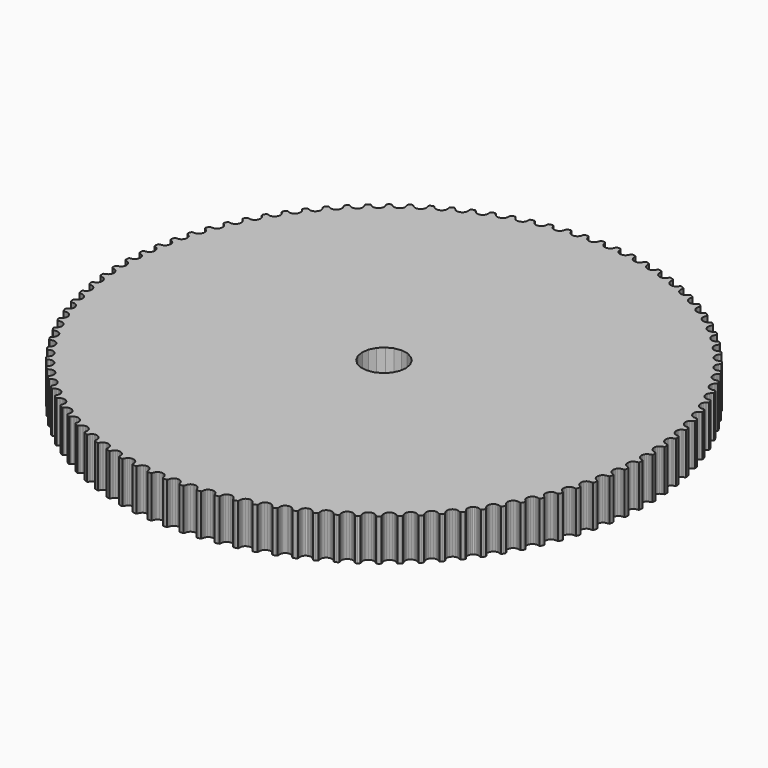
from build123d import *

# Parameters (mm, degrees)
F2_DEPTH = 2.5


with BuildPart() as f2:
    # F1 (on Top) → F2 (new body, symmetric)
    with BuildSketch(Plane.XY):
        Polygon((0.84491, -31.5649), (0.991852, -31.5614), (1.13872, -31.5556), (1.24638, -31.5123), (1.29677, -31.4157), (1.31229, -31.3066), (1.34114, -31.1999), (1.38292, -31.0964), (1.43713, -30.9968), (1.53665, -30.8932), (1.65651, -30.8151), (1.79091, -30.7638), (1.93401, -30.7404), (2.07893, -30.7457), (2.2187, -30.7798), (2.3474, -30.8422), (2.45911, -30.9325), (2.52521, -31.0245), (2.57964, -31.122), (2.62175, -31.2242), (2.65088, -31.3305), (2.71283, -31.4201), (2.82521, -31.4495), (2.97165, -31.4368), (3.11786, -31.4219), (3.2226, -31.3719), (3.26682, -31.2723), (3.27545, -31.1624), (3.29756, -31.0541), (3.33275, -30.9482), (3.3806, -30.8454), (3.47342, -30.7357), (3.58813, -30.6503), (3.71906, -30.5907), (3.8604, -30.5583), (4.00536, -30.5545), (4.147, -30.5797), (4.27936, -30.6339), (4.39653, -30.7171), (4.46828, -30.8048), (4.52872, -30.8986), (4.57716, -30.998), (4.6129, -31.1022), (4.68036, -31.1877), (4.79437, -31.2101), (4.93973, -31.1882), (5.08472, -31.1641), (5.1861, -31.1076), (5.22397, -31.0054), (5.22569, -30.8952), (5.24095, -30.7858), (5.26942, -30.6779), (5.31073, -30.5723), (5.39648, -30.457), (5.50562, -30.3645), (5.63252, -30.2968), (5.77155, -30.2556), (5.916, -30.2427), (6.05893, -30.259), (6.19443, -30.3048), (6.31659, -30.3804), (6.39371, -30.4634), (6.45992, -30.5533), (6.51451, -30.6494), (6.55672, -30.7512), (6.62943, -30.8323), (6.7446, -30.8474), (6.88831, -30.8165), (7.03148, -30.7833), (7.12914, -30.7206), (7.16051, -30.6162), (7.15532, -30.5062), (7.16367, -30.396), (7.1853, -30.2865), (7.21989, -30.1785), (7.29825, -30.058), (7.40135, -29.9589), (7.52376, -29.8834), (7.65993, -29.8335), (7.80328, -29.8116), (7.94695, -29.8188), (8.08507, -29.856), (8.21173, -29.9238), (8.2939, -30.0018), (8.36563, -30.0874), (8.42615, -30.1799), (8.47466, -30.2788), (8.55231, -30.3552), (8.66823, -30.3631), (8.80969, -30.3232), (8.95052, -30.2811), (9.04402, -30.2123), (9.06879, -30.1062), (9.05669, -29.9967), (9.05811, -29.8862), (9.07281, -29.7755), (9.10057, -29.6656), (9.1712, -29.5405), (9.26788, -29.4351), (9.3853, -29.352), (9.51807, -29.2936), (9.65976, -29.2628), (9.80362, -29.261), (9.94379, -29.2894), (10.0745, -29.3491), (10.1614, -29.4218), (10.2383, -29.5027), (10.3045, -29.5912), (10.3592, -29.6869), (10.4415, -29.7583), (10.5576, -29.7589), (10.6963, -29.7102), (10.8342, -29.6593), (10.9232, -29.5849), (10.9413, -29.4774), (10.9223, -29.3688), (10.9168, -29.2584), (10.9246, -29.1471), (10.9453, -29.0356), (11.008, -28.9063), (11.0978, -28.7951), (11.2098, -28.7047), (11.3387, -28.6382), (11.4781, -28.5985), (11.6216, -28.5877), (11.7633, -28.6073), (11.8974, -28.6586), (11.9887, -28.7257), (12.0706, -28.8016), (12.1423, -28.8858), (12.2028, -28.9779), (12.2894, -29.0439), (12.4054, -29.0372), (12.5407, -28.9799), (12.6752, -28.9205), (12.7593, -28.8406), (12.7706, -28.7322), (12.7449, -28.625), (12.7324, -28.5152), (12.7332, -28.4036), (12.7469, -28.2911), (12.8013, -28.1581), (12.884, -28.0414), (12.9901, -27.9442), (13.1145, -27.8697), (13.2512, -27.8213), (13.3937, -27.8015), (13.5363, -27.8122), (13.6734, -27.8551), (13.7688, -27.9163), (13.8553, -27.9869), (13.932, -28.0664), (13.9982, -28.1545), (14.0888, -28.215), (14.2042, -28.201), (14.3357, -28.1353), (14.4661, -28.0675), (14.5451, -27.9825), (14.5495, -27.8736), (14.5171, -27.7683), (14.4978, -27.6595), (14.4915, -27.548), (14.4982, -27.4348), (14.5441, -27.2987), (14.6193, -27.1771), (14.7191, -27.0734), (14.8386, -26.9913), (14.972, -26.9344), (15.1129, -26.9057), (15.2559, -26.9074), (15.3955, -26.9415), (15.4945, -26.9966), (15.5852, -27.0617), (15.6669, -27.1362), (15.7385, -27.22), (15.8327, -27.2747), (15.9469, -27.2535), (16.074, -27.1796), (16.1999, -27.1038), (16.2734, -27.014), (16.271, -26.905), (16.232, -26.802), (16.2059, -26.6946), (16.1927, -26.5838), (16.1922, -26.4704), (16.2295, -26.3316), (16.2969, -26.2055), (16.39, -26.0958), (16.5041, -26.0063), (16.6337, -25.9412), (16.7725, -25.9037), (16.9154, -25.8963), (17.0568, -25.9217), (17.159, -25.9705), (17.2537, -26.0297), (17.3398, -26.0989), (17.4166, -26.178), (17.514, -26.2267), (17.6267, -26.1984), (17.7489, -26.1167), (17.8698, -26.0331), (17.9375, -25.9389), (17.9283, -25.8303), (17.8829, -25.7299), (17.8501, -25.6243), (17.8299, -25.5146), (17.8223, -25.4014), (17.8508, -25.2606), (17.9102, -25.1305), (17.9962, -25.0152), (18.1045, -24.9187), (18.2297, -24.8455), (18.3659, -24.7994), (18.508, -24.7831), (18.6508, -24.7995), (18.7559, -24.8418), (18.8541, -24.8949), (18.9444, -24.9587), (19.0259, -25.0328), (19.1262, -25.0752), (19.2369, -25.0399), (19.3538, -24.9507), (19.4692, -24.8597), (19.5308, -24.7614), (19.5148, -24.6536), (19.4632, -24.5562), (19.4239, -24.453), (19.3968, -24.3447), (19.3821, -24.2322), (19.4017, -24.0899), (19.4528, -23.9563), (19.5314, -23.8358), (19.6334, -23.7327), (19.7538, -23.6518), (19.8869, -23.5972), (20.0277, -23.5721), (20.1711, -23.5795), (20.2787, -23.6151), (20.38, -23.6619), (20.4742, -23.7199), (20.5602, -23.7887), (20.663, -23.8248), (20.7712, -23.7826), (20.8822, -23.6862), (20.9917, -23.5882), (21.0471, -23.4862), (21.0243, -23.3796), (20.9667, -23.2857), (20.921, -23.1851), (20.8871, -23.0787), (20.8654, -22.9674), (20.8761, -22.8241), (20.9187, -22.6876), (20.9895, -22.5624), (21.0848, -22.4531), (21.1999, -22.3648), (21.3293, -22.302), (21.4682, -22.268), (21.6119, -22.2664), (21.7215, -22.2952), (21.8256, -22.3356), (21.9232, -22.3875), (22.0133, -22.4508), (22.1182, -22.4804), (22.2236, -22.4314), (22.3283, -22.3283), (22.4314, -22.2236), (22.4803, -22.1183), (22.4508, -22.0133), (22.3875, -21.9232), (22.3355, -21.8257), (22.2951, -21.7216), (22.2664, -21.6119), (22.268, -21.4682), (22.302, -21.3293), (22.3648, -21.1999), (22.4531, -21.0848), (22.5624, -20.9895), (22.6876, -20.9187), (22.8241, -20.8761), (22.9674, -20.8654), (23.0786, -20.8873), (23.185, -20.9211), (23.2856, -20.9667), (23.3796, -21.0243), (23.4861, -21.0472), (23.5882, -20.9917), (23.6862, -20.8822), (23.7826, -20.7712), (23.8247, -20.6631), (23.7887, -20.5602), (23.7198, -20.4742), (23.6618, -20.3802), (23.615, -20.2788), (23.5795, -20.1711), (23.5721, -20.0277), (23.5972, -19.8869), (23.6518, -19.7538), (23.7327, -19.6334), (23.8358, -19.5314), (23.9563, -19.4528), (24.0899, -19.4017), (24.2322, -19.3821), (24.3445, -19.3969), (24.4529, -19.424), (24.5562, -19.4633), (24.6536, -19.5148), (24.7613, -19.5309), (24.8597, -19.4692), (24.9507, -19.3538), (25.0399, -19.2369), (25.0751, -19.1264), (25.0328, -19.0259), (24.9586, -18.9444), (24.8948, -18.8542), (24.8417, -18.756), (24.7995, -18.6508), (24.7831, -18.508), (24.7994, -18.3659), (24.8455, -18.2297), (24.9187, -18.1045), (25.0152, -17.9962), (25.1305, -17.9102), (25.2606, -17.8508), (25.4014, -17.8223), (25.5145, -17.8301), (25.6242, -17.8503), (25.7298, -17.883), (25.8303, -17.9283), (25.9388, -17.9376), (26.0331, -17.8698), (26.1167, -17.7489), (26.1984, -17.6267), (26.2266, -17.5141), (26.178, -17.4166), (26.0989, -17.3399), (26.0296, -17.2538), (25.9704, -17.1592), (25.9217, -17.0568), (25.8963, -16.9154), (25.9037, -16.7725), (25.9412, -16.6337), (26.0063, -16.5041), (26.0958, -16.39), (26.2055, -16.2969), (26.3316, -16.2295), (26.4704, -16.1922), (26.5837, -16.1928), (26.6945, -16.2061), (26.8019, -16.2321), (26.905, -16.271), (27.0139, -16.2735), (27.1038, -16.1999), (27.1796, -16.074), (27.2535, -15.9469), (27.2746, -15.8328), (27.22, -15.7385), (27.1362, -15.6669), (27.0616, -15.5854), (26.9966, -15.4946), (26.9415, -15.3955), (26.9074, -15.2559), (26.9057, -15.1129), (26.9344, -14.972), (26.9913, -14.8386), (27.0734, -14.7191), (27.1771, -14.6193), (27.2987, -14.5441), (27.4348, -14.4982), (27.548, -14.4917), (27.6594, -14.4979), (27.7683, -14.5171), (27.8736, -14.5495), (27.9825, -14.5452), (28.0675, -14.4661), (28.1353, -14.3357), (28.201, -14.2042), (28.2149, -14.089), (28.1545, -13.9982), (28.0664, -13.9321), (27.9868, -13.8554), (27.9162, -13.7689), (27.8551, -13.6734), (27.8122, -13.5363), (27.8015, -13.3937), (27.8213, -13.2512), (27.8697, -13.1145), (27.9442, -12.9901), (28.0414, -12.884), (28.1581, -12.8013), (28.2911, -12.7469), (28.4035, -12.7333), (28.5152, -12.7326), (28.625, -12.7449), (28.7322, -12.7706), (28.8405, -12.7595), (28.9205, -12.6752), (28.9799, -12.5407), (29.0372, -12.4054), (29.0439, -12.2895), (28.9779, -12.2028), (28.8858, -12.1423), (28.8016, -12.0708), (28.7257, -11.9889), (28.6586, -11.8974), (28.6073, -11.7633), (28.5877, -11.6216), (28.5985, -11.4781), (28.6382, -11.3387), (28.7047, -11.2098), (28.7951, -11.0978), (28.9063, -11.008), (29.0356, -10.9453), (29.147, -10.9247), (29.2584, -10.917), (29.3688, -10.9224), (29.4774, -10.9413), (29.5848, -10.9234), (29.6593, -10.8342), (29.7102, -10.6963), (29.7589, -10.5576), (29.7583, -10.4416), (29.6869, -10.3592), (29.5912, -10.3046), (29.5027, -10.2385), (29.4218, -10.1615), (29.3491, -10.0745), (29.2894, -9.94379), (29.261, -9.80362), (29.2628, -9.65976), (29.2936, -9.51807), (29.352, -9.3853), (29.4351, -9.26788), (29.5405, -9.1712), (29.6656, -9.10057), (29.7755, -9.073), (29.8861, -9.05826), (29.9967, -9.05673), (30.1062, -9.06879), (30.2123, -9.04416), (30.2811, -8.95052), (30.3232, -8.80969), (30.3631, -8.66823), (30.3552, -8.55244), (30.2788, -8.47466), (30.1799, -8.42619), (30.0873, -8.36578), (30.0018, -8.29407), (29.9238, -8.21173), (29.856, -8.08507), (29.8188, -7.94695), (29.8116, -7.80328), (29.8335, -7.65993), (29.8834, -7.52376), (29.9589, -7.40135), (30.058, -7.29825), (30.1785, -7.21989), (30.2864, -7.18547), (30.3959, -7.16382), (30.5061, -7.15536), (30.6162, -7.16051), (30.7206, -7.12926), (30.7833, -7.03149), (30.8165, -6.88831), (30.8474, -6.7446), (30.8323, -6.62955), (30.7512, -6.55672), (30.6494, -6.51456), (30.5532, -6.46007), (30.4634, -6.39388), (30.3804, -6.31659), (30.3048, -6.19443), (30.259, -6.05893), (30.2427, -5.916), (30.2556, -5.77155), (30.2968, -5.63252), (30.3645, -5.50562), (30.457, -5.39648), (30.5723, -5.31073), (30.6778, -5.26959), (30.7858, -5.24112), (30.8952, -5.22574), (31.0054, -5.22397), (31.1076, -5.18623), (31.1641, -5.08472), (31.1882, -4.93973), (31.2101, -4.79437), (31.1877, -4.6805), (31.1022, -4.6129), (30.998, -4.57721), (30.8986, -4.52887), (30.8047, -4.46844), (30.7171, -4.39653), (30.6339, -4.27936), (30.5797, -4.147), (30.5545, -4.00536), (30.5583, -3.8604), (30.5907, -3.71906), (30.6503, -3.58813), (30.7357, -3.47342), (30.8454, -3.3806), (30.9482, -3.33292), (31.0541, -3.29771), (31.1624, -3.2755), (31.2723, -3.26682), (31.3719, -3.22275), (31.4219, -3.11787), (31.4368, -2.97165), (31.4495, -2.82521), (31.4201, -2.71297), (31.3305, -2.65088), (31.2242, -2.6218), (31.122, -2.5798), (31.0245, -2.52539), (30.9325, -2.45911), (30.8422, -2.3474), (30.7798, -2.2187), (30.7457, -2.07893), (30.7404, -1.93401), (30.7638, -1.79091), (30.8151, -1.65651), (30.8932, -1.53665), (30.9968, -1.43713), (31.0964, -1.38309), (31.1999, -1.34131), (31.3066, -1.31233), (31.4157, -1.29677), (31.5123, -1.24652), (31.5556, -1.13872), (31.5614, -0.991852), (31.5649, -0.84491), (31.5284, -0.734726), (31.4351, -0.678375), (31.3272, -0.656052), (31.2226, -0.620544), (31.1219, -0.572357), (31.0259, -0.511993), (30.9287, -0.406158), (30.8584, -0.281647), (30.8156, -0.144287), (30.8012, 0), (30.8156, 0.144287), (30.8584, 0.281647), (30.9287, 0.406158), (31.0259, 0.511993), (31.1219, 0.572189), (31.2226, 0.620392), (31.3272, 0.655991), (31.4351, 0.678375), (31.5284, 0.734589), (31.5649, 0.84491), (31.5614, 0.991852), (31.5556, 1.13872), (31.5123, 1.24638), (31.4157, 1.29677), (31.3066, 1.31229), (31.1999, 1.34114), (31.0964, 1.38292), (30.9968, 1.43713), (30.8932, 1.53665), (30.8151, 1.65651), (30.7638, 1.79091), (30.7404, 1.93401), (30.7457, 2.07893), (30.7798, 2.2187), (30.8422, 2.3474), (30.9325, 2.45911), (31.0245, 2.52521), (31.122, 2.57964), (31.2242, 2.62175), (31.3305, 2.65088), (31.4201, 2.71283), (31.4495, 2.82521), (31.4368, 2.97165), (31.4219, 3.11786), (31.3719, 3.2226), (31.2723, 3.26682), (31.1624, 3.27545), (31.0541, 3.29756), (30.9482, 3.33275), (30.8454, 3.3806), (30.7357, 3.47342), (30.6503, 3.58813), (30.5907, 3.71906), (30.5583, 3.8604), (30.5545, 4.00536), (30.5797, 4.147), (30.6339, 4.27936), (30.7171, 4.39653), (30.8048, 4.46828), (30.8986, 4.52872), (30.998, 4.57716), (31.1022, 4.6129), (31.1877, 4.68036), (31.2101, 4.79437), (31.1882, 4.93973), (31.1641, 5.08472), (31.1076, 5.1861), (31.0054, 5.22397), (30.8952, 5.22569), (30.7858, 5.24095), (30.6779, 5.26942), (30.5723, 5.31073), (30.457, 5.39648), (30.3645, 5.50562), (30.2968, 5.63252), (30.2556, 5.77155), (30.2427, 5.916), (30.259, 6.05893), (30.3048, 6.19443), (30.3804, 6.31659), (30.4634, 6.39371), (30.5533, 6.45992), (30.6494, 6.51451), (30.7512, 6.55672), (30.8323, 6.62943), (30.8474, 6.7446), (30.8165, 6.88831), (30.7833, 7.03148), (30.7206, 7.12914), (30.6162, 7.16051), (30.5062, 7.15532), (30.396, 7.16367), (30.2865, 7.1853), (30.1785, 7.21989), (30.058, 7.29825), (29.9589, 7.40135), (29.8834, 7.52376), (29.8335, 7.65993), (29.8116, 7.80328), (29.8188, 7.94695), (29.856, 8.08507), (29.9238, 8.21173), (30.0018, 8.2939), (30.0874, 8.36563), (30.1799, 8.42615), (30.2788, 8.47466), (30.3552, 8.55231), (30.3631, 8.66823), (30.3232, 8.80969), (30.2811, 8.95052), (30.2123, 9.04402), (30.1062, 9.06879), (29.9967, 9.05669), (29.8862, 9.05811), (29.7755, 9.07281), (29.6656, 9.10057), (29.5405, 9.1712), (29.4351, 9.26788), (29.352, 9.3853), (29.2936, 9.51807), (29.2628, 9.65976), (29.261, 9.80362), (29.2894, 9.94379), (29.3491, 10.0745), (29.4218, 10.1614), (29.5027, 10.2383), (29.5912, 10.3045), (29.6869, 10.3592), (29.7583, 10.4415), (29.7589, 10.5576), (29.7102, 10.6963), (29.6593, 10.8342), (29.5849, 10.9232), (29.4774, 10.9413), (29.3688, 10.9223), (29.2584, 10.9168), (29.1471, 10.9246), (29.0356, 10.9453), (28.9063, 11.008), (28.7951, 11.0978), (28.7047, 11.2098), (28.6382, 11.3387), (28.5985, 11.4781), (28.5877, 11.6216), (28.6073, 11.7633), (28.6586, 11.8974), (28.7257, 11.9887), (28.8016, 12.0706), (28.8858, 12.1423), (28.9779, 12.2028), (29.0439, 12.2894), (29.0372, 12.4054), (28.9799, 12.5407), (28.9205, 12.6752), (28.8406, 12.7593), (28.7322, 12.7706), (28.625, 12.7449), (28.5152, 12.7324), (28.4036, 12.7332), (28.2911, 12.7469), (28.1581, 12.8013), (28.0414, 12.884), (27.9442, 12.9901), (27.8697, 13.1145), (27.8213, 13.2512), (27.8015, 13.3937), (27.8122, 13.5363), (27.8551, 13.6734), (27.9163, 13.7688), (27.9869, 13.8553), (28.0664, 13.932), (28.1545, 13.9982), (28.215, 14.0888), (28.201, 14.2042), (28.1353, 14.3357), (28.0675, 14.4661), (27.9825, 14.5451), (27.8736, 14.5495), (27.7683, 14.5171), (27.6595, 14.4978), (27.548, 14.4915), (27.4348, 14.4982), (27.2987, 14.5441), (27.1771, 14.6193), (27.0734, 14.7191), (26.9913, 14.8386), (26.9344, 14.972), (26.9057, 15.1129), (26.9074, 15.2559), (26.9415, 15.3955), (26.9966, 15.4945), (27.0617, 15.5852), (27.1362, 15.6669), (27.22, 15.7385), (27.2747, 15.8327), (27.2535, 15.9469), (27.1796, 16.074), (27.1038, 16.1999), (27.014, 16.2734), (26.905, 16.271), (26.802, 16.232), (26.6946, 16.2059), (26.5838, 16.1927), (26.4704, 16.1922), (26.3316, 16.2295), (26.2055, 16.2969), (26.0958, 16.39), (26.0063, 16.5041), (25.9412, 16.6337), (25.9037, 16.7725), (25.8963, 16.9154), (25.9217, 17.0568), (25.9705, 17.159), (26.0297, 17.2537), (26.0989, 17.3398), (26.178, 17.4166), (26.2267, 17.514), (26.1984, 17.6267), (26.1167, 17.7489), (26.0331, 17.8698), (25.9389, 17.9375), (25.8303, 17.9283), (25.7299, 17.8829), (25.6243, 17.8501), (25.5146, 17.8299), (25.4014, 17.8223), (25.2606, 17.8508), (25.1305, 17.9102), (25.0152, 17.9962), (24.9187, 18.1045), (24.8455, 18.2297), (24.7994, 18.3659), (24.7831, 18.508), (24.7995, 18.6508), (24.8418, 18.7559), (24.8949, 18.8541), (24.9587, 18.9444), (25.0328, 19.0259), (25.0752, 19.1262), (25.0399, 19.2369), (24.9507, 19.3538), (24.8597, 19.4692), (24.7614, 19.5308), (24.6536, 19.5148), (24.5562, 19.4632), (24.453, 19.4239), (24.3447, 19.3968), (24.2322, 19.3821), (24.0899, 19.4017), (23.9563, 19.4528), (23.8358, 19.5314), (23.7327, 19.6334), (23.6518, 19.7538), (23.5972, 19.8869), (23.5721, 20.0277), (23.5795, 20.1711), (23.6151, 20.2787), (23.6619, 20.38), (23.7199, 20.4742), (23.7887, 20.5602), (23.8248, 20.663), (23.7826, 20.7712), (23.6862, 20.8822), (23.5882, 20.9917), (23.4862, 21.0471), (23.3796, 21.0243), (23.2857, 20.9667), (23.1851, 20.921), (23.0787, 20.8871), (22.9674, 20.8654), (22.8241, 20.8761), (22.6876, 20.9187), (22.5624, 20.9895), (22.4531, 21.0848), (22.3648, 21.1999), (22.302, 21.3293), (22.268, 21.4682), (22.2664, 21.6119), (22.2952, 21.7215), (22.3356, 21.8256), (22.3875, 21.9232), (22.4508, 22.0133), (22.4804, 22.1182), (22.4314, 22.2236), (22.3283, 22.3283), (22.2236, 22.4314), (22.1183, 22.4803), (22.0133, 22.4508), (21.9232, 22.3875), (21.8257, 22.3355), (21.7216, 22.2951), (21.6119, 22.2664), (21.4682, 22.268), (21.3293, 22.302), (21.1999, 22.3648), (21.0848, 22.4531), (20.9895, 22.5624), (20.9187, 22.6876), (20.8761, 22.8241), (20.8654, 22.9674), (20.8873, 23.0786), (20.9211, 23.185), (20.9667, 23.2856), (21.0243, 23.3796), (21.0472, 23.4861), (20.9917, 23.5882), (20.8822, 23.6862), (20.7712, 23.7826), (20.6631, 23.8247), (20.5602, 23.7887), (20.4742, 23.7198), (20.3802, 23.6618), (20.2788, 23.615), (20.1711, 23.5795), (20.0277, 23.5721), (19.8869, 23.5972), (19.7538, 23.6518), (19.6334, 23.7327), (19.5314, 23.8358), (19.4528, 23.9563), (19.4017, 24.0899), (19.3821, 24.2322), (19.3969, 24.3445), (19.424, 24.4529), (19.4633, 24.5562), (19.5148, 24.6536), (19.5309, 24.7613), (19.4692, 24.8597), (19.3538, 24.9507), (19.2369, 25.0399), (19.1264, 25.0751), (19.0259, 25.0328), (18.9444, 24.9586), (18.8542, 24.8948), (18.756, 24.8417), (18.6508, 24.7995), (18.508, 24.7831), (18.3659, 24.7994), (18.2297, 24.8455), (18.1045, 24.9187), (17.9962, 25.0152), (17.9102, 25.1305), (17.8508, 25.2606), (17.8223, 25.4014), (17.8301, 25.5145), (17.8503, 25.6242), (17.883, 25.7298), (17.9283, 25.8303), (17.9376, 25.9388), (17.8698, 26.0331), (17.7489, 26.1167), (17.6267, 26.1984), (17.5141, 26.2266), (17.4166, 26.178), (17.3399, 26.0989), (17.2538, 26.0296), (17.1592, 25.9704), (17.0568, 25.9217), (16.9154, 25.8963), (16.7725, 25.9037), (16.6337, 25.9412), (16.5041, 26.0063), (16.39, 26.0958), (16.2969, 26.2055), (16.2295, 26.3316), (16.1922, 26.4704), (16.1928, 26.5837), (16.2061, 26.6945), (16.2321, 26.8019), (16.271, 26.905), (16.2735, 27.0139), (16.1999, 27.1038), (16.074, 27.1796), (15.9469, 27.2535), (15.8328, 27.2746), (15.7385, 27.22), (15.6669, 27.1362), (15.5854, 27.0616), (15.4946, 26.9966), (15.3955, 26.9415), (15.2559, 26.9074), (15.1129, 26.9057), (14.972, 26.9344), (14.8386, 26.9913), (14.7191, 27.0734), (14.6193, 27.1771), (14.5441, 27.2987), (14.4982, 27.4348), (14.4917, 27.548), (14.4979, 27.6594), (14.5171, 27.7683), (14.5495, 27.8736), (14.5452, 27.9825), (14.4661, 28.0675), (14.3357, 28.1353), (14.2042, 28.201), (14.089, 28.2149), (13.9982, 28.1545), (13.9321, 28.0664), (13.8554, 27.9868), (13.7689, 27.9162), (13.6734, 27.8551), (13.5363, 27.8122), (13.3937, 27.8015), (13.2512, 27.8213), (13.1145, 27.8697), (12.9901, 27.9442), (12.884, 28.0414), (12.8013, 28.1581), (12.7469, 28.2911), (12.7333, 28.4035), (12.7326, 28.5152), (12.7449, 28.625), (12.7706, 28.7322), (12.7595, 28.8405), (12.6752, 28.9205), (12.5407, 28.9799), (12.4054, 29.0372), (12.2895, 29.0439), (12.2028, 28.9779), (12.1423, 28.8858), (12.0708, 28.8016), (11.9889, 28.7257), (11.8974, 28.6586), (11.7633, 28.6073), (11.6216, 28.5877), (11.4781, 28.5985), (11.3387, 28.6382), (11.2098, 28.7047), (11.0978, 28.7951), (11.008, 28.9063), (10.9453, 29.0356), (10.9247, 29.147), (10.917, 29.2584), (10.9224, 29.3688), (10.9413, 29.4774), (10.9234, 29.5848), (10.8342, 29.6593), (10.6963, 29.7102), (10.5576, 29.7589), (10.4416, 29.7583), (10.3592, 29.6869), (10.3046, 29.5912), (10.2385, 29.5027), (10.1615, 29.4218), (10.0745, 29.3491), (9.94379, 29.2894), (9.80362, 29.261), (9.65976, 29.2628), (9.51807, 29.2936), (9.3853, 29.352), (9.26788, 29.4351), (9.1712, 29.5405), (9.10057, 29.6656), (9.073, 29.7755), (9.05826, 29.8861), (9.05673, 29.9967), (9.06879, 30.1062), (9.04416, 30.2123), (8.95052, 30.2811), (8.80969, 30.3232), (8.66823, 30.3631), (8.55244, 30.3552), (8.47466, 30.2788), (8.42619, 30.1799), (8.36578, 30.0873), (8.29407, 30.0018), (8.21173, 29.9238), (8.08507, 29.856), (7.94695, 29.8188), (7.80328, 29.8116), (7.65993, 29.8335), (7.52376, 29.8834), (7.40135, 29.9589), (7.29825, 30.058), (7.21989, 30.1785), (7.18547, 30.2864), (7.16382, 30.3959), (7.15536, 30.5061), (7.16051, 30.6162), (7.12926, 30.7206), (7.03149, 30.7833), (6.88831, 30.8165), (6.7446, 30.8474), (6.62955, 30.8323), (6.55672, 30.7512), (6.51456, 30.6494), (6.46007, 30.5532), (6.39388, 30.4634), (6.31659, 30.3804), (6.19443, 30.3048), (6.05893, 30.259), (5.916, 30.2427), (5.77155, 30.2556), (5.63252, 30.2968), (5.50562, 30.3645), (5.39648, 30.457), (5.31073, 30.5723), (5.26959, 30.6778), (5.24112, 30.7858), (5.22574, 30.8952), (5.22397, 31.0054), (5.18623, 31.1076), (5.08472, 31.1641), (4.93973, 31.1882), (4.79437, 31.2101), (4.6805, 31.1877), (4.6129, 31.1022), (4.57721, 30.998), (4.52887, 30.8986), (4.46844, 30.8047), (4.39653, 30.7171), (4.27936, 30.6339), (4.147, 30.5797), (4.00536, 30.5545), (3.8604, 30.5583), (3.71906, 30.5907), (3.58813, 30.6503), (3.47342, 30.7357), (3.3806, 30.8454), (3.33292, 30.9482), (3.29771, 31.0541), (3.2755, 31.1624), (3.26682, 31.2723), (3.22275, 31.3719), (3.11787, 31.4219), (2.97165, 31.4368), (2.82521, 31.4495), (2.71297, 31.4201), (2.65088, 31.3305), (2.6218, 31.2242), (2.5798, 31.122), (2.52539, 31.0245), (2.45911, 30.9325), (2.3474, 30.8422), (2.2187, 30.7798), (2.07893, 30.7457), (1.93401, 30.7404), (1.79091, 30.7638), (1.65651, 30.8151), (1.53665, 30.8932), (1.43713, 30.9968), (1.38309, 31.0964), (1.34131, 31.1999), (1.31233, 31.3066), (1.29677, 31.4157), (1.24652, 31.5123), (1.13872, 31.5556), (0.991852, 31.5614), (0.84491, 31.5649), (0.734726, 31.5284), (0.678375, 31.4351), (0.656052, 31.3272), (0.620544, 31.2226), (0.572357, 31.1219), (0.511993, 31.0259), (0.406158, 30.9287), (0.281647, 30.8584), (0.144287, 30.8156), (0, 30.8012), (-0.144287, 30.8156), (-0.281647, 30.8584), (-0.406158, 30.9287), (-0.511993, 31.0259), (-0.572189, 31.1219), (-0.620392, 31.2226), (-0.655991, 31.3272), (-0.678375, 31.4351), (-0.734589, 31.5284), (-0.84491, 31.5649), (-0.991852, 31.5614), (-1.13872, 31.5556), (-1.24638, 31.5123), (-1.29677, 31.4157), (-1.31229, 31.3066), (-1.34114, 31.1999), (-1.38292, 31.0964), (-1.43713, 30.9968), (-1.53665, 30.8932), (-1.65651, 30.8151), (-1.79091, 30.7638), (-1.93401, 30.7404), (-2.07893, 30.7457), (-2.2187, 30.7798), (-2.3474, 30.8422), (-2.45911, 30.9325), (-2.52521, 31.0245), (-2.57964, 31.122), (-2.62175, 31.2242), (-2.65088, 31.3305), (-2.71283, 31.4201), (-2.82521, 31.4495), (-2.97165, 31.4368), (-3.11786, 31.4219), (-3.2226, 31.3719), (-3.26682, 31.2723), (-3.27545, 31.1624), (-3.29756, 31.0541), (-3.33275, 30.9482), (-3.3806, 30.8454), (-3.47342, 30.7357), (-3.58813, 30.6503), (-3.71906, 30.5907), (-3.8604, 30.5583), (-4.00536, 30.5545), (-4.147, 30.5797), (-4.27936, 30.6339), (-4.39653, 30.7171), (-4.46828, 30.8048), (-4.52872, 30.8986), (-4.57716, 30.998), (-4.6129, 31.1022), (-4.68036, 31.1877), (-4.79437, 31.2101), (-4.93973, 31.1882), (-5.08472, 31.1641), (-5.1861, 31.1076), (-5.22397, 31.0054), (-5.22569, 30.8952), (-5.24095, 30.7858), (-5.26942, 30.6779), (-5.31073, 30.5723), (-5.39648, 30.457), (-5.50562, 30.3645), (-5.63252, 30.2968), (-5.77155, 30.2556), (-5.916, 30.2427), (-6.05893, 30.259), (-6.19443, 30.3048), (-6.31659, 30.3804), (-6.39371, 30.4634), (-6.45992, 30.5533), (-6.51451, 30.6494), (-6.55672, 30.7512), (-6.62943, 30.8323), (-6.7446, 30.8474), (-6.88831, 30.8165), (-7.03148, 30.7833), (-7.12914, 30.7206), (-7.16051, 30.6162), (-7.15532, 30.5062), (-7.16367, 30.396), (-7.1853, 30.2865), (-7.21989, 30.1785), (-7.29825, 30.058), (-7.40135, 29.9589), (-7.52376, 29.8834), (-7.65993, 29.8335), (-7.80328, 29.8116), (-7.94695, 29.8188), (-8.08507, 29.856), (-8.21173, 29.9238), (-8.2939, 30.0018), (-8.36563, 30.0874), (-8.42615, 30.1799), (-8.47466, 30.2788), (-8.55231, 30.3552), (-8.66823, 30.3631), (-8.80969, 30.3232), (-8.95052, 30.2811), (-9.04402, 30.2123), (-9.06879, 30.1062), (-9.05669, 29.9967), (-9.05811, 29.8862), (-9.07281, 29.7755), (-9.10057, 29.6656), (-9.1712, 29.5405), (-9.26788, 29.4351), (-9.3853, 29.352), (-9.51807, 29.2936), (-9.65976, 29.2628), (-9.80362, 29.261), (-9.94379, 29.2894), (-10.0745, 29.3491), (-10.1614, 29.4218), (-10.2383, 29.5027), (-10.3045, 29.5912), (-10.3592, 29.6869), (-10.4415, 29.7583), (-10.5576, 29.7589), (-10.6963, 29.7102), (-10.8342, 29.6593), (-10.9232, 29.5849), (-10.9413, 29.4774), (-10.9223, 29.3688), (-10.9168, 29.2584), (-10.9246, 29.1471), (-10.9453, 29.0356), (-11.008, 28.9063), (-11.0978, 28.7951), (-11.2098, 28.7047), (-11.3387, 28.6382), (-11.4781, 28.5985), (-11.6216, 28.5877), (-11.7633, 28.6073), (-11.8974, 28.6586), (-11.9887, 28.7257), (-12.0706, 28.8016), (-12.1423, 28.8858), (-12.2028, 28.9779), (-12.2894, 29.0439), (-12.4054, 29.0372), (-12.5407, 28.9799), (-12.6752, 28.9205), (-12.7593, 28.8406), (-12.7706, 28.7322), (-12.7449, 28.625), (-12.7324, 28.5152), (-12.7332, 28.4036), (-12.7469, 28.2911), (-12.8013, 28.1581), (-12.884, 28.0414), (-12.9901, 27.9442), (-13.1145, 27.8697), (-13.2512, 27.8213), (-13.3937, 27.8015), (-13.5363, 27.8122), (-13.6734, 27.8551), (-13.7688, 27.9163), (-13.8553, 27.9869), (-13.932, 28.0664), (-13.9982, 28.1545), (-14.0888, 28.215), (-14.2042, 28.201), (-14.3357, 28.1353), (-14.4661, 28.0675), (-14.5451, 27.9825), (-14.5495, 27.8736), (-14.5171, 27.7683), (-14.4978, 27.6595), (-14.4915, 27.548), (-14.4982, 27.4348), (-14.5441, 27.2987), (-14.6193, 27.1771), (-14.7191, 27.0734), (-14.8386, 26.9913), (-14.972, 26.9344), (-15.1129, 26.9057), (-15.2559, 26.9074), (-15.3955, 26.9415), (-15.4945, 26.9966), (-15.5852, 27.0617), (-15.6669, 27.1362), (-15.7385, 27.22), (-15.8327, 27.2747), (-15.9469, 27.2535), (-16.074, 27.1796), (-16.1999, 27.1038), (-16.2734, 27.014), (-16.271, 26.905), (-16.232, 26.802), (-16.2059, 26.6946), (-16.1927, 26.5838), (-16.1922, 26.4704), (-16.2295, 26.3316), (-16.2969, 26.2055), (-16.39, 26.0958), (-16.5041, 26.0063), (-16.6337, 25.9412), (-16.7725, 25.9037), (-16.9154, 25.8963), (-17.0568, 25.9217), (-17.159, 25.9705), (-17.2537, 26.0297), (-17.3398, 26.0989), (-17.4166, 26.178), (-17.514, 26.2267), (-17.6267, 26.1984), (-17.7489, 26.1167), (-17.8698, 26.0331), (-17.9375, 25.9389), (-17.9283, 25.8303), (-17.8829, 25.7299), (-17.8501, 25.6243), (-17.8299, 25.5146), (-17.8223, 25.4014), (-17.8508, 25.2606), (-17.9102, 25.1305), (-17.9962, 25.0152), (-18.1045, 24.9187), (-18.2297, 24.8455), (-18.3659, 24.7994), (-18.508, 24.7831), (-18.6508, 24.7995), (-18.7559, 24.8418), (-18.8541, 24.8949), (-18.9444, 24.9587), (-19.0259, 25.0328), (-19.1262, 25.0752), (-19.2369, 25.0399), (-19.3538, 24.9507), (-19.4692, 24.8597), (-19.5308, 24.7614), (-19.5148, 24.6536), (-19.4632, 24.5562), (-19.4239, 24.453), (-19.3968, 24.3447), (-19.3821, 24.2322), (-19.4017, 24.0899), (-19.4528, 23.9563), (-19.5314, 23.8358), (-19.6334, 23.7327), (-19.7538, 23.6518), (-19.8869, 23.5972), (-20.0277, 23.5721), (-20.1711, 23.5795), (-20.2787, 23.6151), (-20.38, 23.6619), (-20.4742, 23.7199), (-20.5602, 23.7887), (-20.663, 23.8248), (-20.7712, 23.7826), (-20.8822, 23.6862), (-20.9917, 23.5882), (-21.0471, 23.4862), (-21.0243, 23.3796), (-20.9667, 23.2857), (-20.921, 23.1851), (-20.8871, 23.0787), (-20.8654, 22.9674), (-20.8761, 22.8241), (-20.9187, 22.6876), (-20.9895, 22.5624), (-21.0848, 22.4531), (-21.1999, 22.3648), (-21.3293, 22.302), (-21.4682, 22.268), (-21.6119, 22.2664), (-21.7215, 22.2952), (-21.8256, 22.3356), (-21.9232, 22.3875), (-22.0133, 22.4508), (-22.1182, 22.4804), (-22.2236, 22.4314), (-22.3283, 22.3283), (-22.4314, 22.2236), (-22.4803, 22.1183), (-22.4508, 22.0133), (-22.3875, 21.9232), (-22.3355, 21.8257), (-22.2951, 21.7216), (-22.2664, 21.6119), (-22.268, 21.4682), (-22.302, 21.3293), (-22.3648, 21.1999), (-22.4531, 21.0848), (-22.5624, 20.9895), (-22.6876, 20.9187), (-22.8241, 20.8761), (-22.9674, 20.8654), (-23.0786, 20.8873), (-23.185, 20.9211), (-23.2856, 20.9667), (-23.3796, 21.0243), (-23.4861, 21.0472), (-23.5882, 20.9917), (-23.6862, 20.8822), (-23.7826, 20.7712), (-23.8247, 20.6631), (-23.7887, 20.5602), (-23.7198, 20.4742), (-23.6618, 20.3802), (-23.615, 20.2788), (-23.5795, 20.1711), (-23.5721, 20.0277), (-23.5972, 19.8869), (-23.6518, 19.7538), (-23.7327, 19.6334), (-23.8358, 19.5314), (-23.9563, 19.4528), (-24.0899, 19.4017), (-24.2322, 19.3821), (-24.3445, 19.3969), (-24.4529, 19.424), (-24.5562, 19.4633), (-24.6536, 19.5148), (-24.7613, 19.5309), (-24.8597, 19.4692), (-24.9507, 19.3538), (-25.0399, 19.2369), (-25.0751, 19.1264), (-25.0328, 19.0259), (-24.9586, 18.9444), (-24.8948, 18.8542), (-24.8417, 18.756), (-24.7995, 18.6508), (-24.7831, 18.508), (-24.7994, 18.3659), (-24.8455, 18.2297), (-24.9187, 18.1045), (-25.0152, 17.9962), (-25.1305, 17.9102), (-25.2606, 17.8508), (-25.4014, 17.8223), (-25.5145, 17.8301), (-25.6242, 17.8503), (-25.7298, 17.883), (-25.8303, 17.9283), (-25.9388, 17.9376), (-26.0331, 17.8698), (-26.1167, 17.7489), (-26.1984, 17.6267), (-26.2266, 17.5141), (-26.178, 17.4166), (-26.0989, 17.3399), (-26.0296, 17.2538), (-25.9704, 17.1592), (-25.9217, 17.0568), (-25.8963, 16.9154), (-25.9037, 16.7725), (-25.9412, 16.6337), (-26.0063, 16.5041), (-26.0958, 16.39), (-26.2055, 16.2969), (-26.3316, 16.2295), (-26.4704, 16.1922), (-26.5837, 16.1928), (-26.6945, 16.2061), (-26.8019, 16.2321), (-26.905, 16.271), (-27.0139, 16.2735), (-27.1038, 16.1999), (-27.1796, 16.074), (-27.2535, 15.9469), (-27.2746, 15.8328), (-27.22, 15.7385), (-27.1362, 15.6669), (-27.0616, 15.5854), (-26.9966, 15.4946), (-26.9415, 15.3955), (-26.9074, 15.2559), (-26.9057, 15.1129), (-26.9344, 14.972), (-26.9913, 14.8386), (-27.0734, 14.7191), (-27.1771, 14.6193), (-27.2987, 14.5441), (-27.4348, 14.4982), (-27.548, 14.4917), (-27.6594, 14.4979), (-27.7683, 14.5171), (-27.8736, 14.5495), (-27.9825, 14.5452), (-28.0675, 14.4661), (-28.1353, 14.3357), (-28.201, 14.2042), (-28.2149, 14.089), (-28.1545, 13.9982), (-28.0664, 13.9321), (-27.9868, 13.8554), (-27.9162, 13.7689), (-27.8551, 13.6734), (-27.8122, 13.5363), (-27.8015, 13.3937), (-27.8213, 13.2512), (-27.8697, 13.1145), (-27.9442, 12.9901), (-28.0414, 12.884), (-28.1581, 12.8013), (-28.2911, 12.7469), (-28.4035, 12.7333), (-28.5152, 12.7326), (-28.625, 12.7449), (-28.7322, 12.7706), (-28.8405, 12.7595), (-28.9205, 12.6752), (-28.9799, 12.5407), (-29.0372, 12.4054), (-29.0439, 12.2895), (-28.9779, 12.2028), (-28.8858, 12.1423), (-28.8016, 12.0708), (-28.7257, 11.9889), (-28.6586, 11.8974), (-28.6073, 11.7633), (-28.5877, 11.6216), (-28.5985, 11.4781), (-28.6382, 11.3387), (-28.7047, 11.2098), (-28.7951, 11.0978), (-28.9063, 11.008), (-29.0356, 10.9453), (-29.147, 10.9247), (-29.2584, 10.917), (-29.3688, 10.9224), (-29.4774, 10.9413), (-29.5848, 10.9234), (-29.6593, 10.8342), (-29.7102, 10.6963), (-29.7589, 10.5576), (-29.7583, 10.4416), (-29.6869, 10.3592), (-29.5912, 10.3046), (-29.5027, 10.2385), (-29.4218, 10.1615), (-29.3491, 10.0745), (-29.2894, 9.94379), (-29.261, 9.80362), (-29.2628, 9.65976), (-29.2936, 9.51807), (-29.352, 9.3853), (-29.4351, 9.26788), (-29.5405, 9.1712), (-29.6656, 9.10057), (-29.7755, 9.073), (-29.8861, 9.05826), (-29.9967, 9.05673), (-30.1062, 9.06879), (-30.2123, 9.04416), (-30.2811, 8.95052), (-30.3232, 8.80969), (-30.3631, 8.66823), (-30.3552, 8.55244), (-30.2788, 8.47466), (-30.1799, 8.42619), (-30.0873, 8.36578), (-30.0018, 8.29407), (-29.9238, 8.21173), (-29.856, 8.08507), (-29.8188, 7.94695), (-29.8116, 7.80328), (-29.8335, 7.65993), (-29.8834, 7.52376), (-29.9589, 7.40135), (-30.058, 7.29825), (-30.1785, 7.21989), (-30.2864, 7.18547), (-30.3959, 7.16382), (-30.5061, 7.15536), (-30.6162, 7.16051), (-30.7206, 7.12926), (-30.7833, 7.03149), (-30.8165, 6.88831), (-30.8474, 6.7446), (-30.8323, 6.62955), (-30.7512, 6.55672), (-30.6494, 6.51456), (-30.5532, 6.46007), (-30.4634, 6.39388), (-30.3804, 6.31659), (-30.3048, 6.19443), (-30.259, 6.05893), (-30.2427, 5.916), (-30.2556, 5.77155), (-30.2968, 5.63252), (-30.3645, 5.50562), (-30.457, 5.39648), (-30.5723, 5.31073), (-30.6778, 5.26959), (-30.7858, 5.24112), (-30.8952, 5.22574), (-31.0054, 5.22397), (-31.1076, 5.18623), (-31.1641, 5.08472), (-31.1882, 4.93973), (-31.2101, 4.79437), (-31.1877, 4.6805), (-31.1022, 4.6129), (-30.998, 4.57721), (-30.8986, 4.52887), (-30.8047, 4.46844), (-30.7171, 4.39653), (-30.6339, 4.27936), (-30.5797, 4.147), (-30.5545, 4.00536), (-30.5583, 3.8604), (-30.5907, 3.71906), (-30.6503, 3.58813), (-30.7357, 3.47342), (-30.8454, 3.3806), (-30.9482, 3.33292), (-31.0541, 3.29771), (-31.1624, 3.2755), (-31.2723, 3.26682), (-31.3719, 3.22275), (-31.4219, 3.11787), (-31.4368, 2.97165), (-31.4495, 2.82521), (-31.4201, 2.71297), (-31.3305, 2.65088), (-31.2242, 2.6218), (-31.122, 2.5798), (-31.0245, 2.52539), (-30.9325, 2.45911), (-30.8422, 2.3474), (-30.7798, 2.2187), (-30.7457, 2.07893), (-30.7404, 1.93401), (-30.7638, 1.79091), (-30.8151, 1.65651), (-30.8932, 1.53665), (-30.9968, 1.43713), (-31.0964, 1.38309), (-31.1999, 1.34131), (-31.3066, 1.31233), (-31.4157, 1.29677), (-31.5123, 1.24652), (-31.5556, 1.13872), (-31.5614, 0.991852), (-31.5649, 0.84491), (-31.5284, 0.734726), (-31.4351, 0.678375), (-31.3272, 0.656052), (-31.2226, 0.620544), (-31.1219, 0.572357), (-31.0259, 0.511993), (-30.9287, 0.406158), (-30.8584, 0.281647), (-30.8156, 0.144287), (-30.8012, 0), (-30.8156, -0.144287), (-30.8584, -0.281647), (-30.9287, -0.406158), (-31.0259, -0.511993), (-31.1219, -0.572189), (-31.2226, -0.620392), (-31.3272, -0.655991), (-31.4351, -0.678375), (-31.5284, -0.734589), (-31.5649, -0.84491), (-31.5614, -0.991852), (-31.5556, -1.13872), (-31.5123, -1.24638), (-31.4157, -1.29677), (-31.3066, -1.31229), (-31.1999, -1.34114), (-31.0964, -1.38292), (-30.9968, -1.43713), (-30.8932, -1.53665), (-30.8151, -1.65651), (-30.7638, -1.79091), (-30.7404, -1.93401), (-30.7457, -2.07893), (-30.7798, -2.2187), (-30.8422, -2.3474), (-30.9325, -2.45911), (-31.0245, -2.52521), (-31.122, -2.57964), (-31.2242, -2.62175), (-31.3305, -2.65088), (-31.4201, -2.71283), (-31.4495, -2.82521), (-31.4368, -2.97165), (-31.4219, -3.11786), (-31.3719, -3.2226), (-31.2723, -3.26682), (-31.1624, -3.27545), (-31.0541, -3.29756), (-30.9482, -3.33275), (-30.8454, -3.3806), (-30.7357, -3.47342), (-30.6503, -3.58813), (-30.5907, -3.71906), (-30.5583, -3.8604), (-30.5545, -4.00536), (-30.5797, -4.147), (-30.6339, -4.27936), (-30.7171, -4.39653), (-30.8048, -4.46828), (-30.8986, -4.52872), (-30.998, -4.57716), (-31.1022, -4.6129), (-31.1877, -4.68036), (-31.2101, -4.79437), (-31.1882, -4.93973), (-31.1641, -5.08472), (-31.1076, -5.1861), (-31.0054, -5.22397), (-30.8952, -5.22569), (-30.7858, -5.24095), (-30.6779, -5.26942), (-30.5723, -5.31073), (-30.457, -5.39648), (-30.3645, -5.50562), (-30.2968, -5.63252), (-30.2556, -5.77155), (-30.2427, -5.916), (-30.259, -6.05893), (-30.3048, -6.19443), (-30.3804, -6.31659), (-30.4634, -6.39371), (-30.5533, -6.45992), (-30.6494, -6.51451), (-30.7512, -6.55672), (-30.8323, -6.62943), (-30.8474, -6.7446), (-30.8165, -6.88831), (-30.7833, -7.03148), (-30.7206, -7.12914), (-30.6162, -7.16051), (-30.5062, -7.15532), (-30.396, -7.16367), (-30.2865, -7.1853), (-30.1785, -7.21989), (-30.058, -7.29825), (-29.9589, -7.40135), (-29.8834, -7.52376), (-29.8335, -7.65993), (-29.8116, -7.80328), (-29.8188, -7.94695), (-29.856, -8.08507), (-29.9238, -8.21173), (-30.0018, -8.2939), (-30.0874, -8.36563), (-30.1799, -8.42615), (-30.2788, -8.47466), (-30.3552, -8.55231), (-30.3631, -8.66823), (-30.3232, -8.80969), (-30.2811, -8.95052), (-30.2123, -9.04402), (-30.1062, -9.06879), (-29.9967, -9.05669), (-29.8862, -9.05811), (-29.7755, -9.07281), (-29.6656, -9.10057), (-29.5405, -9.1712), (-29.4351, -9.26788), (-29.352, -9.3853), (-29.2936, -9.51807), (-29.2628, -9.65976), (-29.261, -9.80362), (-29.2894, -9.94379), (-29.3491, -10.0745), (-29.4218, -10.1614), (-29.5027, -10.2383), (-29.5912, -10.3045), (-29.6869, -10.3592), (-29.7583, -10.4415), (-29.7589, -10.5576), (-29.7102, -10.6963), (-29.6593, -10.8342), (-29.5849, -10.9232), (-29.4774, -10.9413), (-29.3688, -10.9223), (-29.2584, -10.9168), (-29.1471, -10.9246), (-29.0356, -10.9453), (-28.9063, -11.008), (-28.7951, -11.0978), (-28.7047, -11.2098), (-28.6382, -11.3387), (-28.5985, -11.4781), (-28.5877, -11.6216), (-28.6073, -11.7633), (-28.6586, -11.8974), (-28.7257, -11.9887), (-28.8016, -12.0706), (-28.8858, -12.1423), (-28.9779, -12.2028), (-29.0439, -12.2894), (-29.0372, -12.4054), (-28.9799, -12.5407), (-28.9205, -12.6752), (-28.8406, -12.7593), (-28.7322, -12.7706), (-28.625, -12.7449), (-28.5152, -12.7324), (-28.4036, -12.7332), (-28.2911, -12.7469), (-28.1581, -12.8013), (-28.0414, -12.884), (-27.9442, -12.9901), (-27.8697, -13.1145), (-27.8213, -13.2512), (-27.8015, -13.3937), (-27.8122, -13.5363), (-27.8551, -13.6734), (-27.9163, -13.7688), (-27.9869, -13.8553), (-28.0664, -13.932), (-28.1545, -13.9982), (-28.215, -14.0888), (-28.201, -14.2042), (-28.1353, -14.3357), (-28.0675, -14.4661), (-27.9825, -14.5451), (-27.8736, -14.5495), (-27.7683, -14.5171), (-27.6595, -14.4978), (-27.548, -14.4915), (-27.4348, -14.4982), (-27.2987, -14.5441), (-27.1771, -14.6193), (-27.0734, -14.7191), (-26.9913, -14.8386), (-26.9344, -14.972), (-26.9057, -15.1129), (-26.9074, -15.2559), (-26.9415, -15.3955), (-26.9966, -15.4945), (-27.0617, -15.5852), (-27.1362, -15.6669), (-27.22, -15.7385), (-27.2747, -15.8327), (-27.2535, -15.9469), (-27.1796, -16.074), (-27.1038, -16.1999), (-27.014, -16.2734), (-26.905, -16.271), (-26.802, -16.232), (-26.6946, -16.2059), (-26.5838, -16.1927), (-26.4704, -16.1922), (-26.3316, -16.2295), (-26.2055, -16.2969), (-26.0958, -16.39), (-26.0063, -16.5041), (-25.9412, -16.6337), (-25.9037, -16.7725), (-25.8963, -16.9154), (-25.9217, -17.0568), (-25.9705, -17.159), (-26.0297, -17.2537), (-26.0989, -17.3398), (-26.178, -17.4166), (-26.2267, -17.514), (-26.1984, -17.6267), (-26.1167, -17.7489), (-26.0331, -17.8698), (-25.9389, -17.9375), (-25.8303, -17.9283), (-25.7299, -17.8829), (-25.6243, -17.8501), (-25.5146, -17.8299), (-25.4014, -17.8223), (-25.2606, -17.8508), (-25.1305, -17.9102), (-25.0152, -17.9962), (-24.9187, -18.1045), (-24.8455, -18.2297), (-24.7994, -18.3659), (-24.7831, -18.508), (-24.7995, -18.6508), (-24.8418, -18.7559), (-24.8949, -18.8541), (-24.9587, -18.9444), (-25.0328, -19.0259), (-25.0752, -19.1262), (-25.0399, -19.2369), (-24.9507, -19.3538), (-24.8597, -19.4692), (-24.7614, -19.5308), (-24.6536, -19.5148), (-24.5562, -19.4632), (-24.453, -19.4239), (-24.3447, -19.3968), (-24.2322, -19.3821), (-24.0899, -19.4017), (-23.9563, -19.4528), (-23.8358, -19.5314), (-23.7327, -19.6334), (-23.6518, -19.7538), (-23.5972, -19.8869), (-23.5721, -20.0277), (-23.5795, -20.1711), (-23.6151, -20.2787), (-23.6619, -20.38), (-23.7199, -20.4742), (-23.7887, -20.5602), (-23.8248, -20.663), (-23.7826, -20.7712), (-23.6862, -20.8822), (-23.5882, -20.9917), (-23.4862, -21.0471), (-23.3796, -21.0243), (-23.2857, -20.9667), (-23.1851, -20.921), (-23.0787, -20.8871), (-22.9674, -20.8654), (-22.8241, -20.8761), (-22.6876, -20.9187), (-22.5624, -20.9895), (-22.4531, -21.0848), (-22.3648, -21.1999), (-22.302, -21.3293), (-22.268, -21.4682), (-22.2664, -21.6119), (-22.2952, -21.7215), (-22.3356, -21.8256), (-22.3875, -21.9232), (-22.4508, -22.0133), (-22.4804, -22.1182), (-22.4314, -22.2236), (-22.3283, -22.3283), (-22.2236, -22.4314), (-22.1183, -22.4803), (-22.0133, -22.4508), (-21.9232, -22.3875), (-21.8257, -22.3355), (-21.7216, -22.2951), (-21.6119, -22.2664), (-21.4682, -22.268), (-21.3293, -22.302), (-21.1999, -22.3648), (-21.0848, -22.4531), (-20.9895, -22.5624), (-20.9187, -22.6876), (-20.8761, -22.8241), (-20.8654, -22.9674), (-20.8873, -23.0786), (-20.9211, -23.185), (-20.9667, -23.2856), (-21.0243, -23.3796), (-21.0472, -23.4861), (-20.9917, -23.5882), (-20.8822, -23.6862), (-20.7712, -23.7826), (-20.6631, -23.8247), (-20.5602, -23.7887), (-20.4742, -23.7198), (-20.3802, -23.6618), (-20.2788, -23.615), (-20.1711, -23.5795), (-20.0277, -23.5721), (-19.8869, -23.5972), (-19.7538, -23.6518), (-19.6334, -23.7327), (-19.5314, -23.8358), (-19.4528, -23.9563), (-19.4017, -24.0899), (-19.3821, -24.2322), (-19.3969, -24.3445), (-19.424, -24.4529), (-19.4633, -24.5562), (-19.5148, -24.6536), (-19.5309, -24.7613), (-19.4692, -24.8597), (-19.3538, -24.9507), (-19.2369, -25.0399), (-19.1264, -25.0751), (-19.0259, -25.0328), (-18.9444, -24.9586), (-18.8542, -24.8948), (-18.756, -24.8417), (-18.6508, -24.7995), (-18.508, -24.7831), (-18.3659, -24.7994), (-18.2297, -24.8455), (-18.1045, -24.9187), (-17.9962, -25.0152), (-17.9102, -25.1305), (-17.8508, -25.2606), (-17.8223, -25.4014), (-17.8301, -25.5145), (-17.8503, -25.6242), (-17.883, -25.7298), (-17.9283, -25.8303), (-17.9376, -25.9388), (-17.8698, -26.0331), (-17.7489, -26.1167), (-17.6267, -26.1984), (-17.5141, -26.2266), (-17.4166, -26.178), (-17.3399, -26.0989), (-17.2538, -26.0296), (-17.1592, -25.9704), (-17.0568, -25.9217), (-16.9154, -25.8963), (-16.7725, -25.9037), (-16.6337, -25.9412), (-16.5041, -26.0063), (-16.39, -26.0958), (-16.2969, -26.2055), (-16.2295, -26.3316), (-16.1922, -26.4704), (-16.1928, -26.5837), (-16.2061, -26.6945), (-16.2321, -26.8019), (-16.271, -26.905), (-16.2735, -27.0139), (-16.1999, -27.1038), (-16.074, -27.1796), (-15.9469, -27.2535), (-15.8328, -27.2746), (-15.7385, -27.22), (-15.6669, -27.1362), (-15.5854, -27.0616), (-15.4946, -26.9966), (-15.3955, -26.9415), (-15.2559, -26.9074), (-15.1129, -26.9057), (-14.972, -26.9344), (-14.8386, -26.9913), (-14.7191, -27.0734), (-14.6193, -27.1771), (-14.5441, -27.2987), (-14.4982, -27.4348), (-14.4917, -27.548), (-14.4979, -27.6594), (-14.5171, -27.7683), (-14.5495, -27.8736), (-14.5452, -27.9825), (-14.4661, -28.0675), (-14.3357, -28.1353), (-14.2042, -28.201), (-14.089, -28.2149), (-13.9982, -28.1545), (-13.9321, -28.0664), (-13.8554, -27.9868), (-13.7689, -27.9162), (-13.6734, -27.8551), (-13.5363, -27.8122), (-13.3937, -27.8015), (-13.2512, -27.8213), (-13.1145, -27.8697), (-12.9901, -27.9442), (-12.884, -28.0414), (-12.8013, -28.1581), (-12.7469, -28.2911), (-12.7333, -28.4035), (-12.7326, -28.5152), (-12.7449, -28.625), (-12.7706, -28.7322), (-12.7595, -28.8405), (-12.6752, -28.9205), (-12.5407, -28.9799), (-12.4054, -29.0372), (-12.2895, -29.0439), (-12.2028, -28.9779), (-12.1423, -28.8858), (-12.0708, -28.8016), (-11.9889, -28.7257), (-11.8974, -28.6586), (-11.7633, -28.6073), (-11.6216, -28.5877), (-11.4781, -28.5985), (-11.3387, -28.6382), (-11.2098, -28.7047), (-11.0978, -28.7951), (-11.008, -28.9063), (-10.9453, -29.0356), (-10.9247, -29.147), (-10.917, -29.2584), (-10.9224, -29.3688), (-10.9413, -29.4774), (-10.9234, -29.5848), (-10.8342, -29.6593), (-10.6963, -29.7102), (-10.5576, -29.7589), (-10.4416, -29.7583), (-10.3592, -29.6869), (-10.3046, -29.5912), (-10.2385, -29.5027), (-10.1615, -29.4218), (-10.0745, -29.3491), (-9.94379, -29.2894), (-9.80362, -29.261), (-9.65976, -29.2628), (-9.51807, -29.2936), (-9.3853, -29.352), (-9.26788, -29.4351), (-9.1712, -29.5405), (-9.10057, -29.6656), (-9.073, -29.7755), (-9.05826, -29.8861), (-9.05673, -29.9967), (-9.06879, -30.1062), (-9.04416, -30.2123), (-8.95052, -30.2811), (-8.80969, -30.3232), (-8.66823, -30.3631), (-8.55244, -30.3552), (-8.47466, -30.2788), (-8.42619, -30.1799), (-8.36578, -30.0873), (-8.29407, -30.0018), (-8.21173, -29.9238), (-8.08507, -29.856), (-7.94695, -29.8188), (-7.80328, -29.8116), (-7.65993, -29.8335), (-7.52376, -29.8834), (-7.40135, -29.9589), (-7.29825, -30.058), (-7.21989, -30.1785), (-7.18547, -30.2864), (-7.16382, -30.3959), (-7.15536, -30.5061), (-7.16051, -30.6162), (-7.12926, -30.7206), (-7.03149, -30.7833), (-6.88831, -30.8165), (-6.7446, -30.8474), (-6.62955, -30.8323), (-6.55672, -30.7512), (-6.51456, -30.6494), (-6.46007, -30.5532), (-6.39388, -30.4634), (-6.31659, -30.3804), (-6.19443, -30.3048), (-6.05893, -30.259), (-5.916, -30.2427), (-5.77155, -30.2556), (-5.63252, -30.2968), (-5.50562, -30.3645), (-5.39648, -30.457), (-5.31073, -30.5723), (-5.26959, -30.6778), (-5.24112, -30.7858), (-5.22574, -30.8952), (-5.22397, -31.0054), (-5.18623, -31.1076), (-5.08472, -31.1641), (-4.93973, -31.1882), (-4.79437, -31.2101), (-4.6805, -31.1877), (-4.6129, -31.1022), (-4.57721, -30.998), (-4.52887, -30.8986), (-4.46844, -30.8047), (-4.39653, -30.7171), (-4.27936, -30.6339), (-4.147, -30.5797), (-4.00536, -30.5545), (-3.8604, -30.5583), (-3.71906, -30.5907), (-3.58813, -30.6503), (-3.47342, -30.7357), (-3.3806, -30.8454), (-3.33292, -30.9482), (-3.29771, -31.0541), (-3.2755, -31.1624), (-3.26682, -31.2723), (-3.22275, -31.3719), (-3.11787, -31.4219), (-2.97165, -31.4368), (-2.82521, -31.4495), (-2.71297, -31.4201), (-2.65088, -31.3305), (-2.6218, -31.2242), (-2.5798, -31.122), (-2.52539, -31.0245), (-2.45911, -30.9325), (-2.3474, -30.8422), (-2.2187, -30.7798), (-2.07893, -30.7457), (-1.93401, -30.7404), (-1.79091, -30.7638), (-1.65651, -30.8151), (-1.53665, -30.8932), (-1.43713, -30.9968), (-1.38309, -31.0964), (-1.34131, -31.1999), (-1.31233, -31.3066), (-1.29677, -31.4157), (-1.24652, -31.5123), (-1.13872, -31.5556), (-0.991852, -31.5614), (-0.84491, -31.5649), (-0.734726, -31.5284), (-0.678375, -31.4351), (-0.656052, -31.3272), (-0.620544, -31.2226), (-0.572357, -31.1219), (-0.511993, -31.0259), (-0.406158, -30.9287), (-0.281647, -30.8584), (-0.144287, -30.8156), (0, -30.8012), (0.144287, -30.8156), (0.281647, -30.8584), (0.406158, -30.9287), (0.511993, -31.0259), (0.572189, -31.1219), (0.620392, -31.2226), (0.655991, -31.3272), (0.678375, -31.4351), (0.734589, -31.5284), align=None)
        Polygon((0, -2.59999), (-0.803436, -2.47275), (-1.52823, -2.10344), (-2.10344, -1.52823), (-2.47275, -0.803436), (-2.59999, 0), (-2.47275, 0.803436), (-2.10344, 1.52823), (-1.52823, 2.10344), (-0.803436, 2.47275), (0, 2.59999), (0.803436, 2.47275), (1.52823, 2.10344), (2.10344, 1.52823), (2.47275, 0.803436), (2.59999, 0), (2.47275, -0.803436), (2.10344, -1.52823), (1.52823, -2.10344), (0.803436, -2.47275), align=None, mode=Mode.SUBTRACT)
    extrude(amount=F2_DEPTH, both=True)


solid = f2.part
